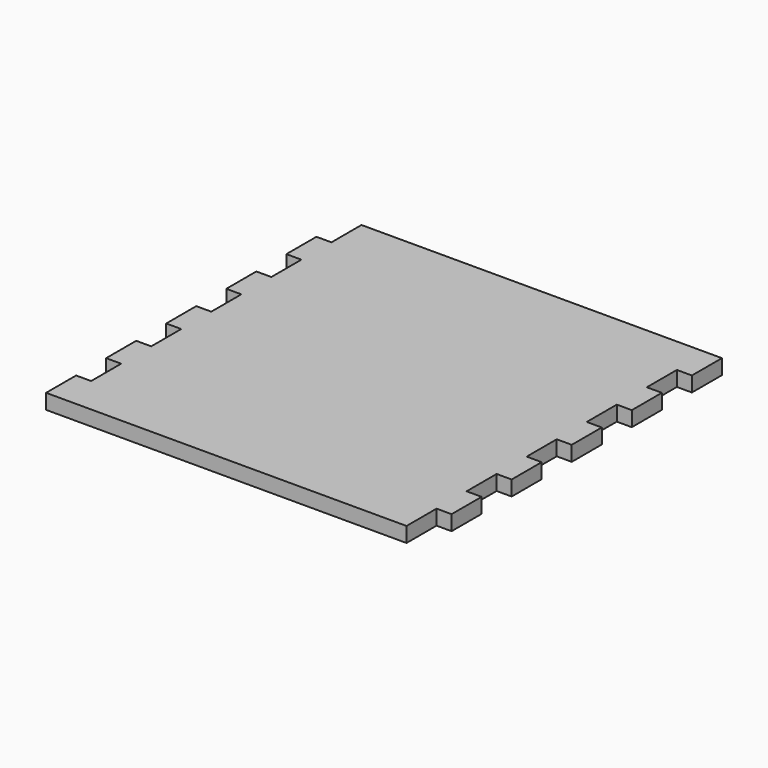
from build123d import *

# Parameters (mm, degrees)
F1_DEPTH = 2


with BuildPart() as f1:
    # F0 (on Top) → F1 (new body)
    with BuildSketch(Plane.XY):
        Polygon((-25, -25), (23, -25), (23, -20), (25, -20), (25, -15), (23, -15), (23, -10), (25, -10), (25, -5), (23, -5), (23, 0), (25, 0), (25, 5), (23, 5), (23, 10), (25, 10), (25, 15), (23, 15), (23, 20), (25, 20), (25, 25), (-23, 25), (-23, 20), (-25, 20), (-25, 15), (-23, 15), (-23, 10), (-25, 10), (-25, 5), (-23, 5), (-23, 0), (-25, 0), (-25, -5), (-23, -5), (-23, -10), (-25, -10), (-25, -15), (-23, -15), (-23, -20), (-25, -20), align=None)
    extrude(amount=F1_DEPTH)


solid = f1.part
